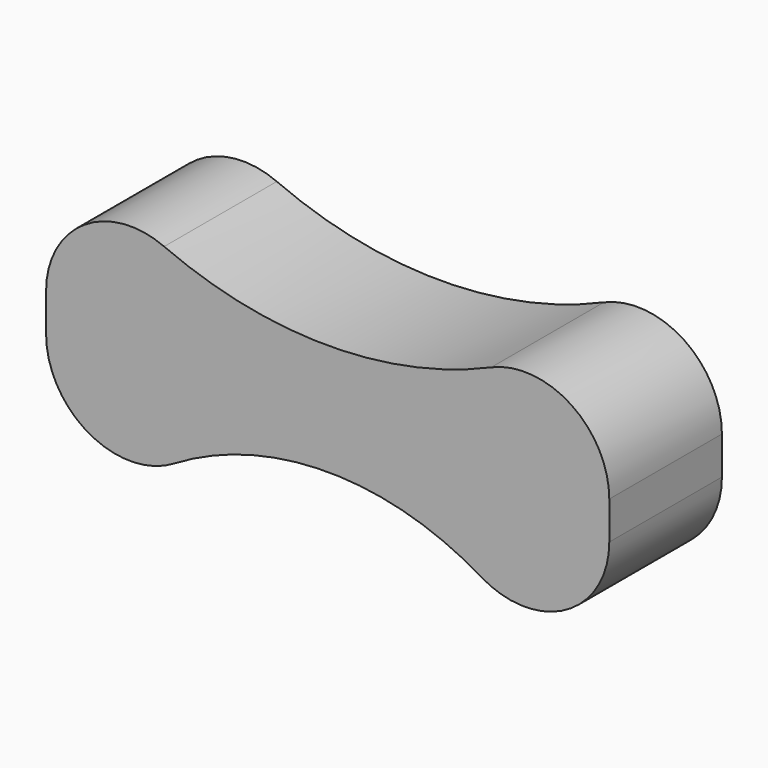
from build123d import *

# Parameters (mm, degrees)
F1_DEPTH = 3.175
F2_R     = 3.81


with BuildPart() as f1:
    # F0 (on Front) → F1 (new body, symmetric)
    with BuildSketch(Plane.XZ):
        with BuildLine():
            ThreePointArc((23.63662, 14.987046), (10.93662, 9.954885), (-1.76338, 14.987046))
            Line((-1.76338, 14.987046), (-1.76338, -4.062954))
            ThreePointArc((-1.76338, -4.062954), (10.93662, 4.934133), (23.63662, -4.062954))
            Line((23.63662, -4.062954), (23.63662, 14.987046))
        make_face()
    extrude(amount=F1_DEPTH, both=True)

    # F2
    f2_edges = [f1.edges().sort_by_distance(p)[0] for p in [
        (23.63662, 0, 14.987046),
        (23.63662, 0, -4.062954),
        (-1.76338, 0, -4.062954),
        (-1.76338, 0, 14.987046),
    ]]
    fillet(f2_edges, radius=F2_R)


solid = f1.part
